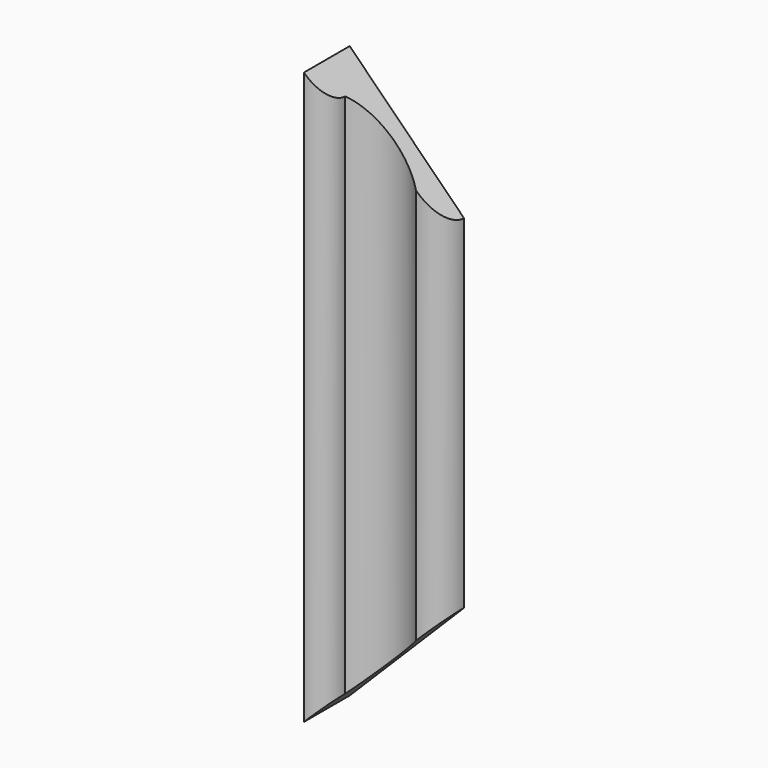
from build123d import *

# Parameters (mm, degrees)
PAD011_DEPTH = 40
PAD010_DEPTH = 40
PAD009_DEPTH = 150


with BuildPart() as body_decoration_left_cut_top:
    # Sketch011 → Pad011 (new body)
    with BuildSketch(Plane(origin=(4, -18, 150), x_dir=(1, 0, 0), z_dir=(0, -1, 0))):
        Polygon((0, 0), (40, -40), (40, 0), align=None)
    extrude(amount=PAD011_DEPTH)


with BuildPart() as body_decoration_left_cut_bottom:
    # Sketch010 → Pad010 (new body)
    with BuildSketch(Plane(origin=(4, -18, 0), x_dir=(1, 0, 0), z_dir=(0, -1, 0))):
        Polygon((0, 0), (40, 40), (40, 0), align=None)
    extrude(amount=PAD010_DEPTH)


with BuildPart() as cut_decoration_left:
    # Sketch009 → Pad009 (new body)
    with BuildSketch(Plane(origin=(4, -18, 0), x_dir=(1, 0, 0), z_dir=(0, 0, 1))):
        with BuildLine():
            Line((30, 0), (0, 0))
            Line((0, -15), (0, 0))
            ThreePointArc((0, -15), (4.242641, -13.242641), (6, -9))
            ThreePointArc((23, -7), (14.080692, -4.435882), (6, -9))
            ThreePointArc((23, -7), (27.949747, -4.949747), (30, 0))
        make_face()
    extrude(amount=PAD009_DEPTH)

    # Cut002: cut Body, Decoration, Left, Cut, Bottom
    add(body_decoration_left_cut_bottom.part, mode=Mode.SUBTRACT)

    # Cut003: cut Body, Decoration, Left, Cut, Top
    add(body_decoration_left_cut_top.part, mode=Mode.SUBTRACT)


solid = cut_decoration_left.part
